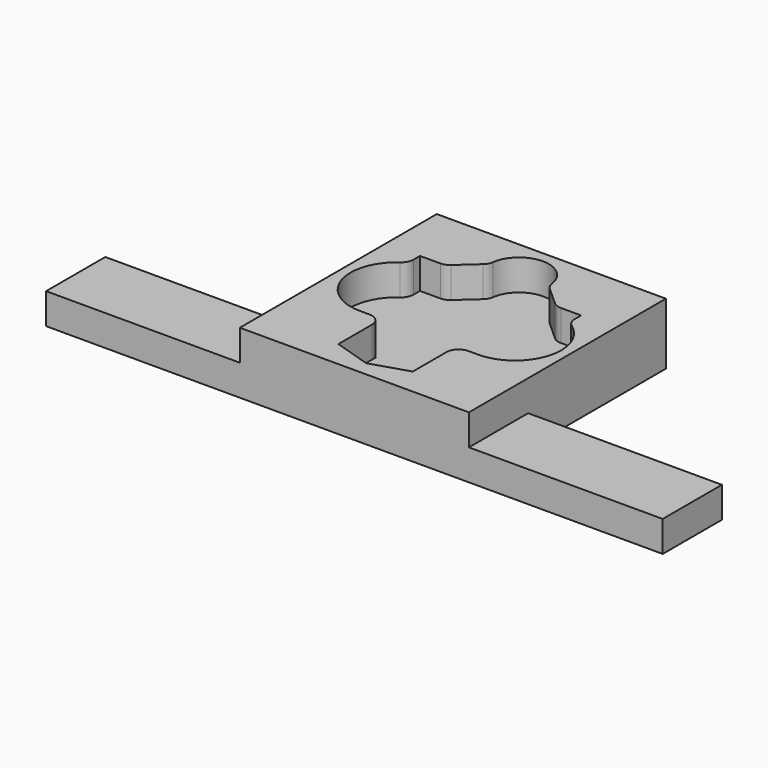
from build123d import *

# Parameters (mm, degrees)
F1_W     = 37.15
F1_H     = 39.9213461205
F2_DEPTH = 5
F3_R     = 2
F4_W     = 31.425
F4_H     = 12
F5_DEPTH = 5
F7_DEPTH = 5


with BuildPart() as f2:
    # F1 (on Top) → F2 (new body)
    with BuildSketch(Plane.XY):
        with Locations((17.075, 17.5686092116)):
            Rectangle(F1_W, F1_H)
        with BuildLine():
            ThreePointArc((7.475, 10.7), (0.2160219573, 16.3909420481), (4.01, 24.7983979195))
            Line((4.01, 24.7983979195), (4.01, 27.23))
            Line((4.01, 27.23), (8.075, 27.23))
            Line((8.075, 27.23), (12.255, 30.99))
            ThreePointArc((12.255, 30.99), (17.075, 35.81), (21.895, 30.99))
            Line((21.895, 30.99), (26.075, 27.23))
            Line((26.075, 27.23), (30.14, 27.23))
            Line((30.14, 27.23), (30.14, 24.7983979195))
            ThreePointArc((30.14, 24.7983979195), (33.9339780427, 16.3909420481), (26.675, 10.7))
            Line((26.675, 10.7), (23.11, 10.7))
            Line((23.11, 10.7), (23.11, 1.9))
            Line((23.11, 1.9), (17.075, 0))
            Line((17.075, 0), (11.04, 1.9))
            Line((11.04, 1.9), (11.04, 10.7))
            Line((11.04, 10.7), (7.475, 10.7))
        make_face(mode=Mode.SUBTRACT)
    extrude(amount=F2_DEPTH)

    # F3
    f3_edges = [f2.edges().sort_by_distance(p)[0] for p in [
        (8.075, 27.23, 2.5),
        (12.255, 30.99, 2.5),
        (21.895, 30.99, 2.5),
        (26.075, 27.23, 2.5),
        (30.14, 24.798398, 2.5),
        (4.01, 24.798398, 2.5),
        (11.04, 10.7, 2.5),
        (23.11, 10.7, 2.5),
    ]]
    fillet(f3_edges, radius=F3_R)

    # F4 (on face) + F0 (on Top) → F5 (join)
    with BuildSketch(Plane(origin=(0, 0, 0), x_dir=(1, 0, 0), z_dir=(0, 0, -1))):
        with Locations((-17.2125, -3.6079361513)):
            Rectangle(F4_W, F4_H)
        with Locations((51.3625, -3.6079361513)):
            Rectangle(F4_W, F4_H)
        with BuildLine():
            Line((23.3279641011, -9.6079361513), (35.65, -9.6079361513))
            Line((35.65, -9.6079361513), (35.65, 2.3920638487))
            Line((35.65, 2.3920638487), (-1.5, 2.3920638487))
            Line((-1.5, 2.3920638487), (-1.5, -9.6079361513))
            Line((-1.5, -9.6079361513), (10.8220358989, -9.6079361513))
            ThreePointArc((10.8220358989, -9.6079361513), (10.9847457158, -9.1668662561), (11.04, -8.7))
            Line((11.04, -8.7), (11.04, -1.9))
            Line((11.04, -1.9), (17.075, 0))
            Line((17.075, 0), (23.11, -1.9))
            Line((23.11, -1.9), (23.11, -8.7))
            ThreePointArc((23.11, -8.7), (23.1652542842, -9.1668662561), (23.3279641011, -9.6079361513))
        make_face()
    with BuildSketch(Plane.XY):
        Polygon((11.04, 1.9), (17.075, 0), (17.075, 10.7), (11.04, 10.7), align=None)
        Polygon((17.075, 10.7), (17.075, 0), (23.11, 1.9), (23.11, 10.7), align=None)
    extrude(amount=F5_DEPTH, dir=(0, 0, -1))

    # F6 (on face) → F7 (join)
    with BuildSketch(Plane(origin=(0, 0, 0), x_dir=(1, 0, 0), z_dir=(0, 0, -1))):
        with BuildLine():
            Line((-1.5, -37.5292822719), (35.65, -37.5292822719))
            Line((35.65, -37.5292822719), (35.65, -9.6079361513))
            Line((35.65, -9.6079361513), (23.3279641011, -9.6079361513))
            ThreePointArc((23.3279641011, -9.6079361513), (24.0649814123, -10.4052671789), (25.11, -10.7))
            Line((25.11, -10.7), (26.675, -10.7))
            ThreePointArc((26.675, -10.7), (33.7996177752, -15.9132647022), (30.9864379947, -24.2813186469))
            ThreePointArc((30.9864379947, -24.2813186469), (30.3641728673, -24.9950956291), (30.14, -25.9151162782))
            Line((30.14, -25.9151162782), (30.14, -27.23))
            Line((30.14, -27.23), (26.8421686802, -27.23))
            ThreePointArc((26.8421686802, -27.23), (26.125888011, -27.3626644643), (25.504632333, -27.7430579971))
            Line((25.504632333, -27.7430579971), (22.4908367694, -30.4540319969))
            ThreePointArc((22.4908367694, -30.4540319969), (22.0628330313, -31.0013633318), (21.8479117921, -31.662095994))
            ThreePointArc((21.8479117921, -31.662095994), (17.075, -35.81), (12.3020882079, -31.662095994))
            ThreePointArc((12.3020882079, -31.662095994), (12.0871669687, -31.0013633318), (11.6591632306, -30.4540319969))
            Line((11.6591632306, -30.4540319969), (8.645367667, -27.7430579971))
            ThreePointArc((8.645367667, -27.7430579971), (8.024111989, -27.3626644643), (7.3078313198, -27.23))
            Line((7.3078313198, -27.23), (4.01, -27.23))
            Line((4.01, -27.23), (4.01, -25.9151162782))
            ThreePointArc((4.01, -25.9151162782), (3.7858271327, -24.9950956291), (3.1635620053, -24.2813186469))
            ThreePointArc((3.1635620053, -24.2813186469), (0.3503822248, -15.9132647022), (7.475, -10.7))
            Line((7.475, -10.7), (9.04, -10.7))
            ThreePointArc((9.04, -10.7), (10.0850185877, -10.4052671789), (10.8220358989, -9.6079361513))
            Line((10.8220358989, -9.6079361513), (-1.5, -9.6079361513))
            Line((-1.5, -9.6079361513), (-1.5, -37.5292822719))
        make_face()
        with BuildLine():
            ThreePointArc((25.11, -10.7), (24.0649814123, -10.4052671789), (23.3279641011, -9.6079361513))
            Line((23.3279641011, -9.6079361513), (10.8220358989, -9.6079361513))
            ThreePointArc((10.8220358989, -9.6079361513), (10.0850185877, -10.4052671789), (9.04, -10.7))
            Line((9.04, -10.7), (7.475, -10.7))
            ThreePointArc((7.475, -10.7), (0.3503822248, -15.9132647022), (3.1635620053, -24.2813186469))
            ThreePointArc((3.1635620053, -24.2813186469), (3.7858271327, -24.9950956291), (4.01, -25.9151162782))
            Line((4.01, -25.9151162782), (4.01, -27.23))
            Line((4.01, -27.23), (7.3078313198, -27.23))
            ThreePointArc((7.3078313198, -27.23), (8.024111989, -27.3626644643), (8.645367667, -27.7430579971))
            Line((8.645367667, -27.7430579971), (11.6591632306, -30.4540319969))
            ThreePointArc((11.6591632306, -30.4540319969), (12.0871669687, -31.0013633318), (12.3020882079, -31.662095994))
            ThreePointArc((12.3020882079, -31.662095994), (17.075, -35.81), (21.8479117921, -31.662095994))
            ThreePointArc((21.8479117921, -31.662095994), (22.0628330313, -31.0013633318), (22.4908367694, -30.4540319969))
            Line((22.4908367694, -30.4540319969), (25.504632333, -27.7430579971))
            ThreePointArc((25.504632333, -27.7430579971), (26.125888011, -27.3626644643), (26.8421686802, -27.23))
            Line((26.8421686802, -27.23), (30.14, -27.23))
            Line((30.14, -27.23), (30.14, -25.9151162782))
            ThreePointArc((30.14, -25.9151162782), (30.3641728673, -24.9950956291), (30.9864379947, -24.2813186469))
            ThreePointArc((30.9864379947, -24.2813186469), (33.7996177752, -15.9132647022), (26.675, -10.7))
            Line((26.675, -10.7), (25.11, -10.7))
        make_face()
    extrude(amount=F7_DEPTH)


solid = f2.part
